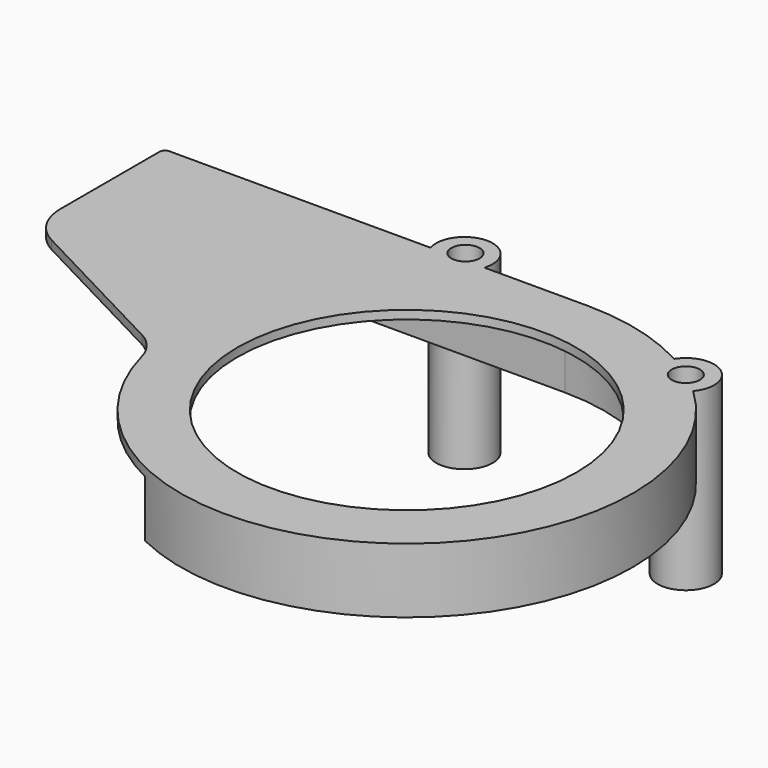
from build123d import *

# Parameters (mm, degrees)
SKETCH_R        = 60
PAD_DEPTH       = 23
POCKET_DEPTH    = 20
SKETCH002_R     = 10
PAD001_DEPTH    = 62
SKETCH005_R     = 2.8
POCKET001_DEPTH = 62.001
SKETCH006_R     = 5
POCKET002_DEPTH = 4
FILLET_R        = 16
FILLET001_R     = 18
FILLET002_R     = 2
FILLET003_R     = 1
SKETCH007_R     = 5
POCKET003_DEPTH = 15


with BuildPart() as part:
    # Sketch → Pad (new body)
    with BuildSketch(Plane.XY):
        with BuildLine():
            ThreePointArc((-78.765475, -14), (61.318839, -51.38093), (0, 80))
            Line((-150, 80), (0, 80))
            Line((-150, 80), (-150, 23.233627))
            Line((-150, 23.233627), (-78.765475, -14))
        make_face()
        Circle(SKETCH_R, mode=Mode.SUBTRACT)
    extrude(amount=PAD_DEPTH)

    # Sketch001 (on Face6 of Pad) → Pocket (cut)
    with BuildSketch(Plane(origin=(0, 0, 0), x_dir=(1, 0, 0), z_dir=(0, 0, -1))):
        with BuildLine():
            Line((-178.35, 70), (0, 70))
            ThreePointArc((0, -70), (70, 0), (0, 70))
            Line((-178.35, -70), (0, -70))
            Line((-178.35, 70), (-178.35, -70))
        make_face()
    extrude(amount=-POCKET_DEPTH, mode=Mode.SUBTRACT)

    # Sketch002 (on Face6 of Pocket) → Pad001 (join)
    with BuildSketch(Plane.XY.offset(23)):
        with Locations((47.02282, 64.72136)):
            Circle(SKETCH002_R)
        with Locations((-46.056914, 83.088872)):
            Circle(SKETCH002_R)
    extrude(amount=-PAD001_DEPTH)

    # Sketch005 (on Face5 of Pad001) → Pocket001 (cut, through all)
    with BuildSketch(Plane.XY.offset(23)):
        with Locations((-46.002335, 83.480621)):
            Circle(SKETCH005_R)
        with Locations((47.02282, 64.72136)):
            Circle(SKETCH005_R)
    extrude(amount=-POCKET001_DEPTH, mode=Mode.SUBTRACT)

    # Sketch006 (on Face12 of Pocket001) → Pocket002 (cut)
    with BuildSketch(Plane(origin=(0, 0, -39), x_dir=(1, 0, 0), z_dir=(0, 0, -1))):
        with Locations((-46.002335, -83.480621)):
            Circle(SKETCH006_R)
        with Locations((47.02282, -64.72136)):
            Circle(SKETCH006_R)
    extrude(amount=-POCKET002_DEPTH, mode=Mode.SUBTRACT)

    # Fillet
    fillet_edges = [part.edges().sort_by_distance(p)[0] for p in [
        (-78.765475, -14, 21.5),
    ]]
    fillet(fillet_edges, radius=FILLET_R)

    # Fillet001
    fillet001_edges = [part.edges().sort_by_distance(p)[0] for p in [
        (-150, 23.233627, 21.5),
    ]]
    fillet(fillet001_edges, radius=FILLET001_R)

    # Fillet002
    fillet002_edges = [part.edges().sort_by_distance(p)[0] for p in [
        (-150, 70, 10),
        (-150, 80, 11.5),
    ]]
    fillet(fillet002_edges, radius=FILLET002_R)

    # Fillet003
    fillet003_edges = [part.edges().sort_by_distance(p)[0] for p in [
        (-38.729833, -70, 10),
    ]]
    fillet(fillet003_edges, radius=FILLET003_R)

    # Sketch007 (on Face10 of Fillet003) → Pocket003 (cut)
    with BuildSketch(Plane.XY.offset(23)):
        with Locations((47.02282, 64.72136)):
            Circle(SKETCH007_R)
        with Locations((-46.002335, 83.480621)):
            Circle(SKETCH007_R)
    extrude(amount=-POCKET003_DEPTH, mode=Mode.SUBTRACT)


solid = part.part
